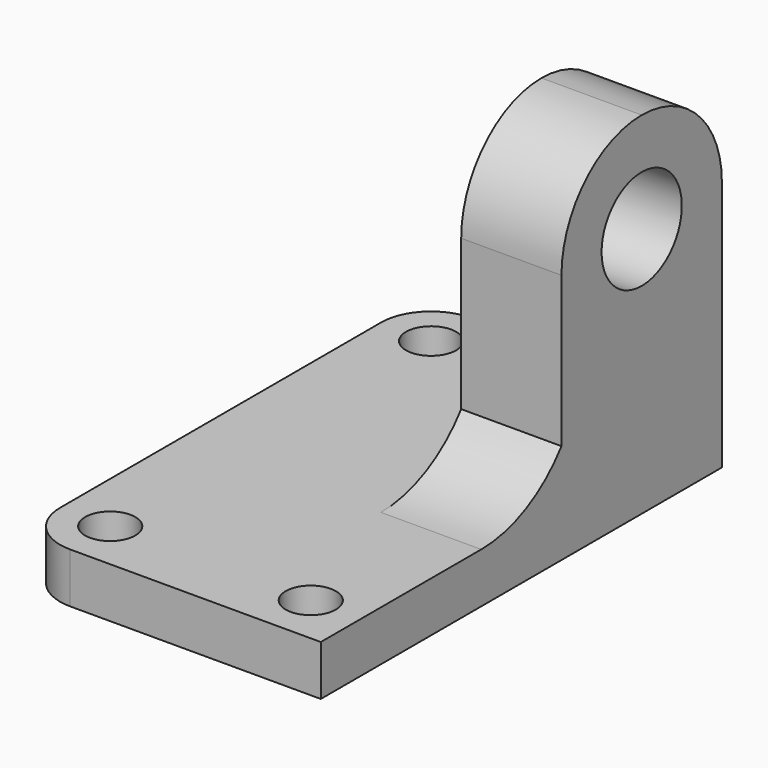
from build123d import *

# Parameters (mm, degrees)
F0_W      = 38.1
F0_H      = 63.5
F1_DEPTH  = 44.45
F3_DEPTH  = 38.1
F5_DEPTH  = 25.4
F7_DEPTH  = 25.4
F8_R      = 6.35
F9_DEPTH  = 25.4
F10_R     = 3.175
F11_DEPTH = 25.4
F13_DEPTH = 25.4
F15_DEPTH = 25.4


with BuildPart() as f1:
    # F0 (on Top) → F1 (new body)
    with BuildSketch(Plane.XY):
        with Locations((19.05, 31.75)):
            Rectangle(F0_W, F0_H)
    extrude(amount=F1_DEPTH)

    # F2 (on face) → F3 (cut)
    with BuildSketch(Plane.XY.offset(44.45)):
        Polygon((25.4, 25.4), (25.4, 63.5), (0, 63.5), (0, 0), (38.1, 0), (38.1, 25.4), align=None)
    extrude(amount=-F3_DEPTH, mode=Mode.SUBTRACT)

    # F4 (on face) → F5 (cut)
    with BuildSketch(Plane(origin=(25.4, 0, 0), x_dir=(0, -1, 0), z_dir=(-1, 0, 0))):
        with BuildLine():
            Line((-63.5, 44.45), (-63.5, 31.7500000057))
            ThreePointArc((-63.5, 31.7500000057), (-59.780256119, 40.7302561231), (-50.8, 44.45))
            Line((-50.8, 44.45), (-63.5, 44.45))
        make_face()
    extrude(amount=-F5_DEPTH, mode=Mode.SUBTRACT)

    # F4 (on face) → F7 (cut)
    with BuildSketch(Plane(origin=(25.4, 0, 0), x_dir=(0, -1, 0), z_dir=(-1, 0, 0))):
        with BuildLine():
            ThreePointArc((-38.1, 12.7), (-32.4995158286, 8.0259683429), (-25.4, 6.35))
            Line((-25.4, 6.35), (-25.4, 44.45))
            Line((-25.4, 44.45), (-38.1, 44.45))
            Line((-38.1, 44.45), (-38.1, 31.75))
            Line((-38.1, 31.75), (-38.1, 12.7))
        make_face()
        with BuildLine():
            Line((-38.1, 44.45), (-50.8, 44.45))
            ThreePointArc((-50.8, 44.45), (-41.8197438789, 40.7302561211), (-38.1, 31.75))
            Line((-38.1, 31.75), (-38.1, 44.45))
        make_face()
    extrude(amount=-F7_DEPTH, mode=Mode.SUBTRACT)

    # F8 (on face) → F9 (cut)
    with BuildSketch(Plane(origin=(25.4, 0, 0), x_dir=(0, -1, 0), z_dir=(-1, 0, 0))):
        with Locations((-50.8, 31.75)):
            Circle(F8_R)
    extrude(amount=-F9_DEPTH, mode=Mode.SUBTRACT)

    # F10 (on face) → F11 (cut)
    with BuildSketch(Plane.XY.offset(6.35)):
        with Locations((31.75, 6.35)):
            Circle(F10_R)
        with Locations((6.35, 6.35)):
            Circle(F10_R)
        with Locations((6.35, 57.15)):
            Circle(F10_R)
    extrude(amount=-F11_DEPTH, mode=Mode.SUBTRACT)

    # F12 (on face) → F13 (cut)
    with BuildSketch(Plane.XY.offset(6.35)):
        with BuildLine():
            ThreePointArc((6.35, 0), (1.8598719353, 1.8598719437), (0, 6.3500000119))
            Line((0, 6.3500000119), (0, 0))
            Line((0, 0), (6.35, 0))
        make_face()
    extrude(amount=-F13_DEPTH, mode=Mode.SUBTRACT)

    # F14 (on face) → F15 (cut)
    with BuildSketch(Plane.XY.offset(6.35)):
        with BuildLine():
            ThreePointArc((0, 57.15), (1.8598719273, 61.6401280484), (6.3499999656, 63.5))
            Line((6.3499999656, 63.5), (0, 63.5))
            Line((0, 63.5), (0, 57.15))
        make_face()
    extrude(amount=-F15_DEPTH, mode=Mode.SUBTRACT)


solid = f1.part
